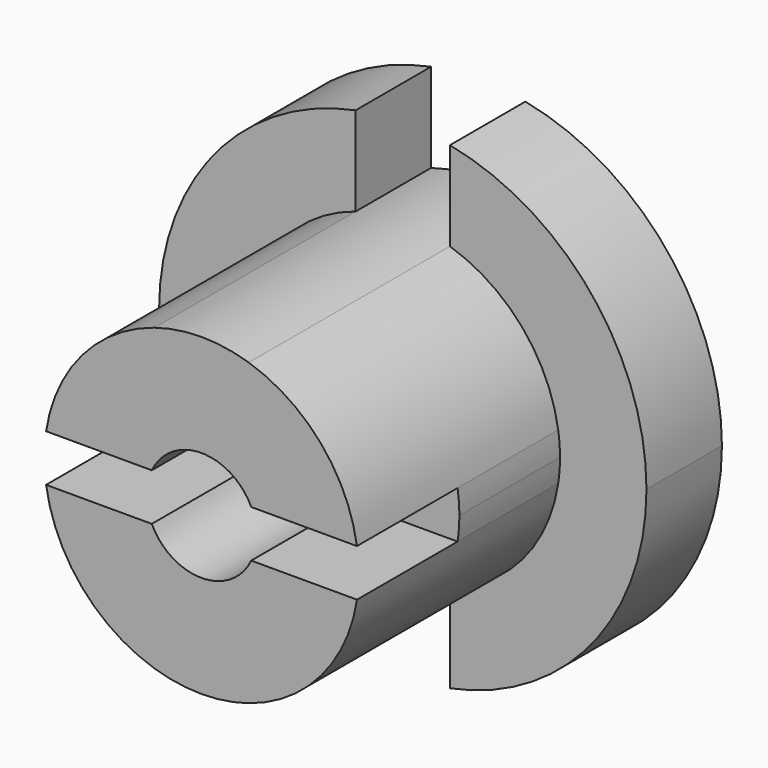
from build123d import *

# Parameters (mm, degrees)
F1_DEPTH = 1117.6
F2_DEPTH = 304.8
F4_DEPTH = 406.4


with BuildPart() as f1:
    # F0 (on Front) → F1 (new body)
    with BuildSketch(Plane.XZ):
        with BuildLine():
            ThreePointArc((502.252486, 76.2), (385.798311, 330.490035), (152.4, 484.601114))
            ThreePointArc((152.4, 484.601114), (0, 508), (-152.4, 484.601114))
            ThreePointArc((-152.4, 484.601114), (-385.798311, 330.490035), (-502.252486, 76.2))
            Line((-502.252486, 76.2), (-160.643705, 76.2))
            ThreePointArc((-160.643705, 76.2), (0, 177.8), (160.643705, 76.2))
            Line((160.643705, 76.2), (502.252486, 76.2))
        make_face()
        with BuildLine():
            Line((-160.643705, 76.2), (-502.252486, 76.2))
            ThreePointArc((-502.252486, 76.2), (-508, 0), (-502.252486, -76.2))
            Line((-502.252486, -76.2), (-160.643705, -76.2))
            ThreePointArc((-160.643705, -76.2), (-177.8, 0), (-160.643705, 76.2))
        make_face()
        with BuildLine():
            ThreePointArc((177.8, 0), (173.457907, 39.05374), (160.643705, 76.2))
            ThreePointArc((160.643705, 76.2), (0, 177.8), (-160.643705, 76.2))
            ThreePointArc((-160.643705, 76.2), (-177.8, 0), (-160.643705, -76.2))
            ThreePointArc((-160.643705, -76.2), (0, -177.8), (160.643705, -76.2))
            ThreePointArc((160.643705, -76.2), (173.457907, -39.05374), (177.8, 0))
        make_face()
        with BuildLine():
            ThreePointArc((508, 0), (506.561084, 38.208225), (502.252486, 76.2))
            Line((502.252486, 76.2), (160.643705, 76.2))
            ThreePointArc((160.643705, 76.2), (173.457907, 39.05374), (177.8, 0))
            ThreePointArc((177.8, 0), (173.457907, -39.05374), (160.643705, -76.2))
            Line((160.643705, -76.2), (502.252486, -76.2))
            ThreePointArc((502.252486, -76.2), (506.561084, -38.208225), (508, 0))
        make_face()
        with BuildLine():
            ThreePointArc((-152.4, -484.601114), (0, -508), (152.4, -484.601114))
            ThreePointArc((152.4, -484.601114), (385.798311, -330.490035), (502.252486, -76.2))
            Line((502.252486, -76.2), (160.643705, -76.2))
            ThreePointArc((160.643705, -76.2), (0, -177.8), (-160.643705, -76.2))
            Line((-160.643705, -76.2), (-502.252486, -76.2))
            ThreePointArc((-502.252486, -76.2), (-385.798311, -330.490035), (-152.4, -484.601114))
        make_face()
    extrude(amount=F1_DEPTH)

    # F0 (on Front) → F2 (join)
    with BuildSketch(Plane.XZ):
        with BuildLine():
            Line((-152.4, 484.601114), (-152.4, 772.510841))
            ThreePointArc((-152.4, 772.510841), (-787.4, 0), (-152.4, -772.510841))
            Line((-152.4, -772.510841), (-152.4, -484.601114))
            ThreePointArc((-152.4, -484.601114), (-385.798311, -330.490035), (-502.252486, -76.2))
            ThreePointArc((-502.252486, -76.2), (-508, 0), (-502.252486, 76.2))
            ThreePointArc((-502.252486, 76.2), (-385.798311, 330.490035), (-152.4, 484.601114))
        make_face()
        with BuildLine():
            ThreePointArc((152.4, -772.510841), (608.275645, -499.9995), (787.4, 0))
            ThreePointArc((787.4, 0), (608.275645, 499.9995), (152.4, 772.510841))
            Line((152.4, 772.510841), (152.4, 484.601114))
            ThreePointArc((152.4, 484.601114), (385.798311, 330.490035), (502.252486, 76.2))
            ThreePointArc((502.252486, 76.2), (506.561084, 38.208225), (508, 0))
            ThreePointArc((508, 0), (506.561084, -38.208225), (502.252486, -76.2))
            ThreePointArc((502.252486, -76.2), (385.798311, -330.490035), (152.4, -484.601114))
            Line((152.4, -484.601114), (152.4, -772.510841))
        make_face()
    extrude(amount=F2_DEPTH)

    # F3 (on face) → F4 (cut)
    with BuildSketch(Plane.XZ.offset(1117.6)):
        with BuildLine():
            ThreePointArc((-160.643705, -76.2), (-177.8, 0), (-160.643705, 76.2))
            Line((-160.643705, 76.2), (-502.252486, 76.2))
            ThreePointArc((-502.252486, 76.2), (-508, 0), (-502.252486, -76.2))
            Line((-502.252486, -76.2), (-160.643705, -76.2))
        make_face()
        with BuildLine():
            ThreePointArc((160.643705, -76.2), (173.457907, -39.05374), (177.8, 0))
            ThreePointArc((177.8, 0), (173.457907, 39.05374), (160.643705, 76.2))
            ThreePointArc((160.643705, 76.2), (0, 177.8), (-160.643705, 76.2))
            ThreePointArc((-160.643705, 76.2), (-177.8, 0), (-160.643705, -76.2))
            ThreePointArc((-160.643705, -76.2), (0, -177.8), (160.643705, -76.2))
        make_face()
        with BuildLine():
            ThreePointArc((160.643705, 76.2), (173.457907, 39.05374), (177.8, 0))
            ThreePointArc((177.8, 0), (173.457907, -39.05374), (160.643705, -76.2))
            Line((160.643705, -76.2), (502.252486, -76.2))
            ThreePointArc((502.252486, -76.2), (506.561084, -38.208225), (508, 0))
            ThreePointArc((508, 0), (506.561084, 38.208225), (502.252486, 76.2))
            Line((502.252486, 76.2), (160.643705, 76.2))
        make_face()
    extrude(amount=-F4_DEPTH, mode=Mode.SUBTRACT)


solid = f1.part
